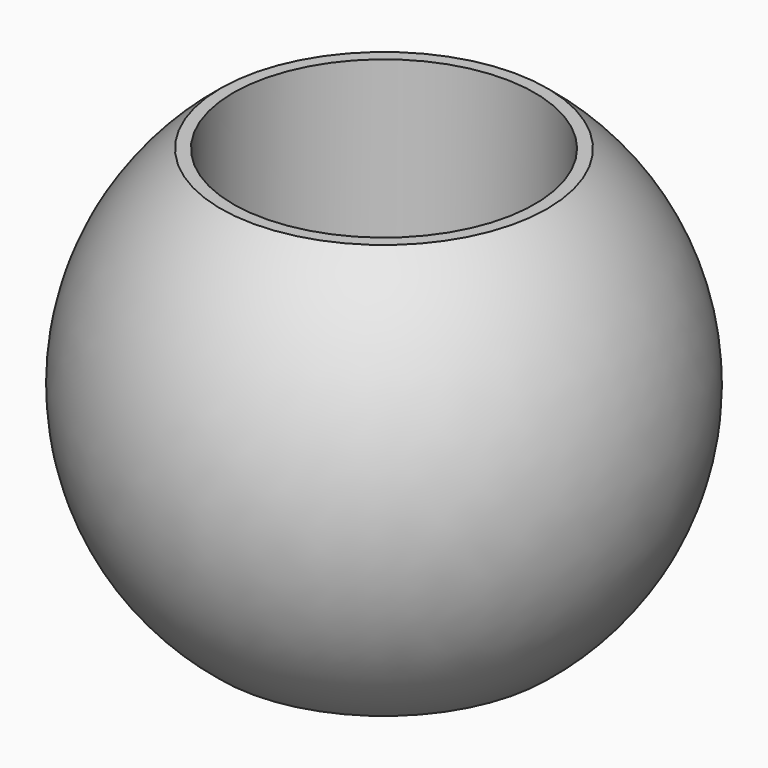
from build123d import *


with BuildPart() as f1:
    # F0 (on Front) → F1 (revolve)
    with BuildSketch(Plane.XZ):
        with BuildLine():
            Line((-12.7, 17.4625), (-13.748153, 17.4625))
            ThreePointArc((-13.748153, 17.4625), (-22.225, 0), (-13.748153, -17.4625))
            Line((-13.748153, -17.4625), (-12.7, -17.4625))
            Line((-12.7, -17.4625), (-12.7, 17.4625))
        make_face()
    revolve(axis=Axis((0, 0, 0), (0, 0, -1)))


solid = f1.part
